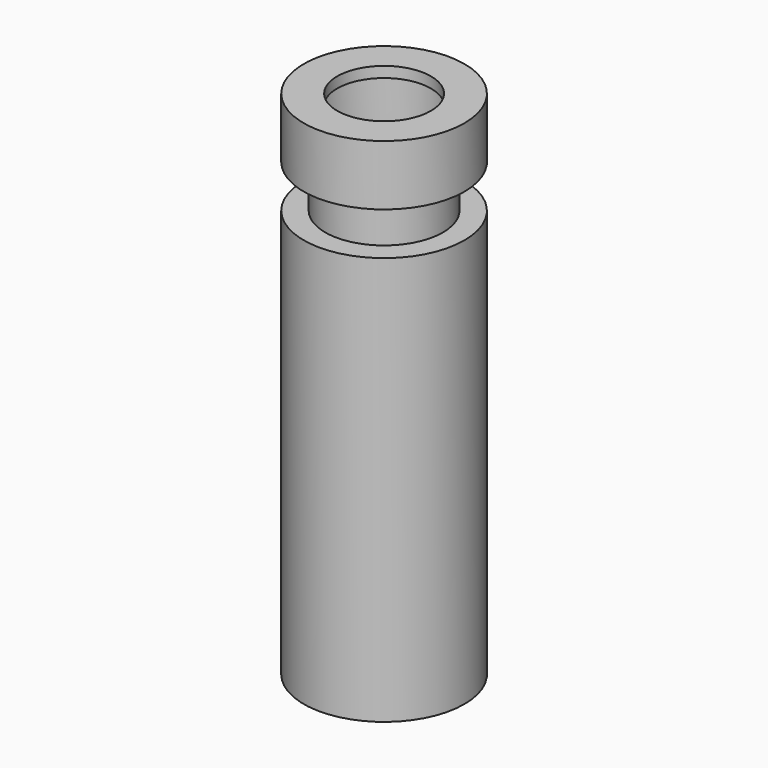
from build123d import *

# Parameters (mm, degrees)
F0_R     = 6
F1_DEPTH = 30.5
F2_R     = 4.4
F3_DEPTH = 3.2
F4_R     = 6
F5_DEPTH = 4.5
F6_R     = 4.4
F7_DEPTH = 3.7
F8_R     = 3.5
F9_DEPTH = 1


with BuildPart() as f1:
    # F0 (on Top) → F1 (new body)
    with BuildSketch(Plane.XY):
        Circle(F0_R)
    extrude(amount=F1_DEPTH)

    # F2 (on face) → F3 (join)
    with BuildSketch(Plane.XY.offset(30.5)):
        Circle(F2_R)
    extrude(amount=F3_DEPTH)


with BuildPart() as f5:
    # F4 (on face) → F5 (new body)
    with BuildSketch(Plane.XY.offset(33.7)):
        Circle(F4_R)
    extrude(amount=F5_DEPTH)

    # F6 (on face) → F7 (cut)
    with BuildSketch(Plane(origin=(0, 0, 33.7), x_dir=(1, 0, 0), z_dir=(0, 0, -1))):
        Circle(F6_R)
    extrude(amount=-F7_DEPTH, mode=Mode.SUBTRACT)

    # F8 (on face) → F9 (cut)
    with BuildSketch(Plane.XY.offset(38.2)):
        Circle(F8_R)
    extrude(amount=-F9_DEPTH, mode=Mode.SUBTRACT)


solid = Compound([f1.part, f5.part])
